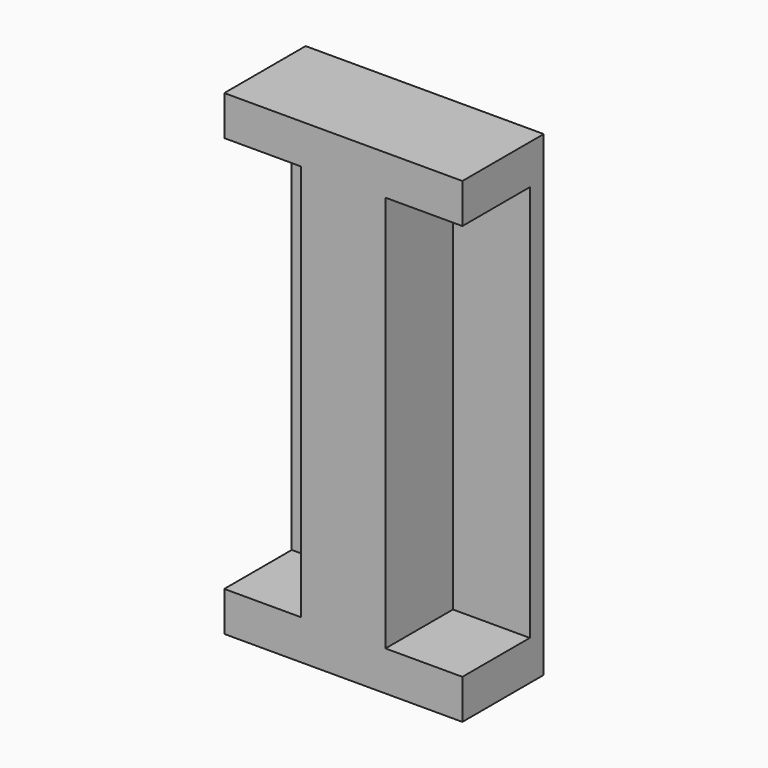
from build123d import *

# Parameters (mm, degrees)
F0_W     = 609.6
F0_H     = 1219.2
F1_DEPTH = 44.45
F2_W     = 609.6
F2_H     = 101.6
F3_DEPTH = 215.9
F4_W     = 215.9
F4_H     = 1016
F5_DEPTH = 260.35


with BuildPart() as f1:
    # F0 (on Front) → F1 (new body)
    with BuildSketch(Plane.XZ):
        Rectangle(F0_W, F0_H)
    extrude(amount=F1_DEPTH)

    # F2 (on face) → F3 (join)
    with BuildSketch(Plane.XZ.offset(44.45)):
        with Locations((0, 558.8)):
            Rectangle(F2_W, F2_H)
        with Locations((0, -558.8)):
            Rectangle(F2_W, F2_H)
    extrude(amount=F3_DEPTH)

    # F4 (on Front) → F5 (join)
    with BuildSketch(Plane.XZ):
        Rectangle(F4_W, F4_H)
    extrude(amount=F5_DEPTH)


solid = f1.part
